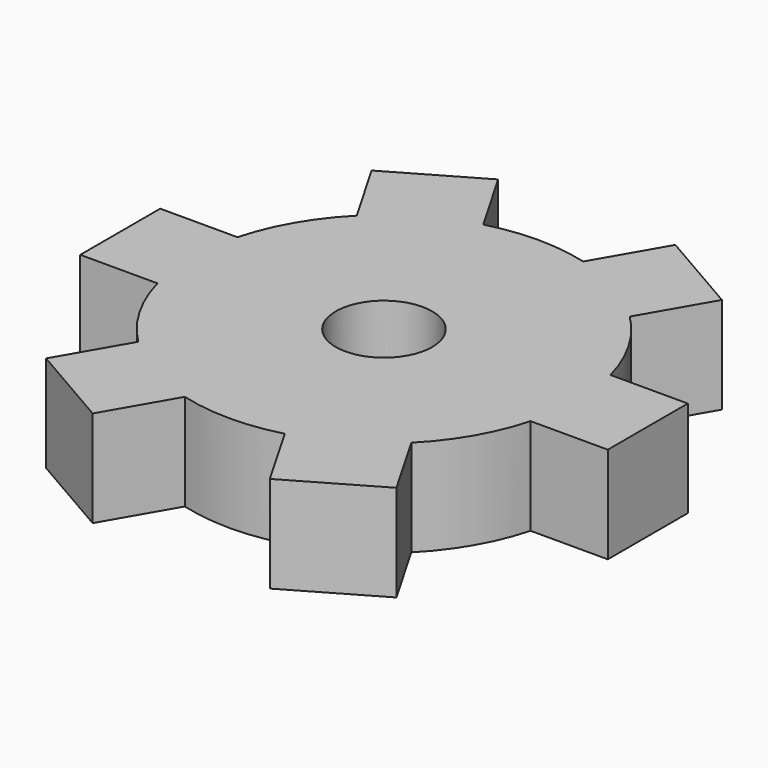
from build123d import *

# Parameters (mm, degrees)
F0_R     = 25.4
F1_DEPTH = 12.7
F3_DEPTH = 12.7
F5_COUNT = 6
F6_R     = 6.35
F7_DEPTH = 25.4


with BuildPart() as f1:
    # F0 (on Top) → F1 (new body)
    with BuildSketch(Plane.XY):
        Circle(F0_R)
    extrude(amount=F1_DEPTH)

    # F2 (on face) → F3 (join)
    with BuildSketch(Plane(origin=(0, 0, 0), x_dir=(1, 0, 0), z_dir=(0, 0, -1))):
        Polygon((24.534516, 6.574004), (0, 0), (24.534516, 0), align=None)
        Polygon((24.534516, 0), (0, 0), (24.534516, -6.574004), align=None)
        Polygon((24.534516, 6.574004), (24.534516, 0), (24.534516, -6.574004), (34.694516, -6.574004), (34.694516, 6.574004), align=None)
    extrude(amount=-F3_DEPTH)

    # F5: F1 ×6 about axis
    f5_axis = Axis((0, 0, 30.548431), (0, 0, 1))


with BuildPart() as f1_1:
    add(f1.part)
    for i in range(1, F5_COUNT):
        add(f1.part.rotate(f5_axis, i * 360 / F5_COUNT))

    # F6 (on face) → F7 (cut)
    with BuildSketch(Plane(origin=(0, 0, 0), x_dir=(1, 0, 0), z_dir=(0, 0, -1))):
        Circle(F6_R)
    extrude(amount=-F7_DEPTH, mode=Mode.SUBTRACT)


solid = f1_1.part
